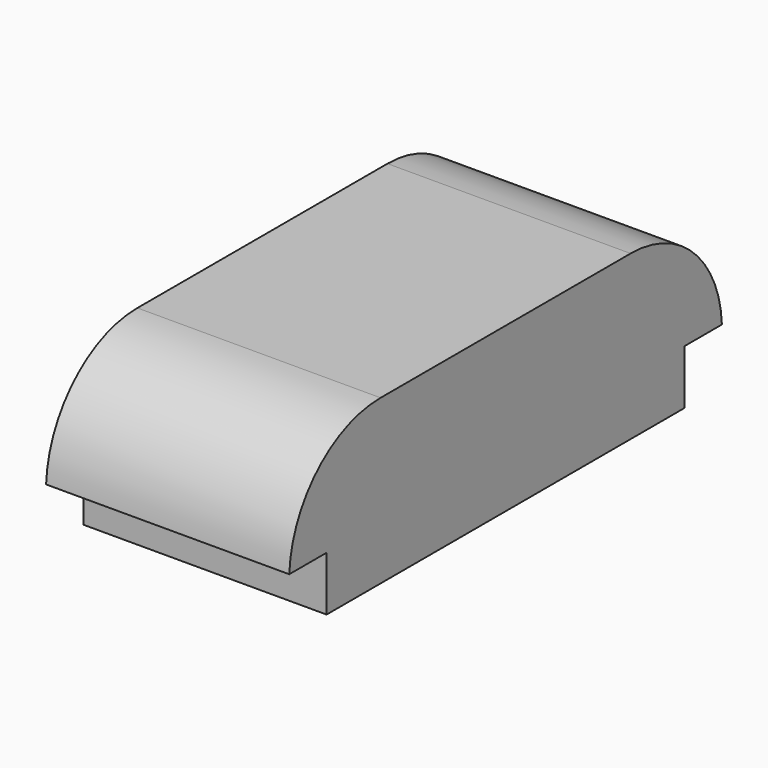
from build123d import *

# Parameters (mm, degrees)
F1_DEPTH      = 28.575
F1_DEPTH_BACK = 28.575


with BuildPart() as f1:
    # F0 (on Right) → F1 (new body, two sides)
    with BuildSketch(Plane.YZ) as f1_sk:
        with BuildLine():
            Line((-36.728401, 0), (0, 0))
            Line((0, 0), (52.577998, 0))
            Line((52.577998, 0), (52.577998, 12.8016))
            Line((52.577998, 12.8016), (63.5508, 12.8016))
            ThreePointArc((63.5508, 12.8016), (55.268661, 30.976501), (36.728401, 38.4048))
            Line((36.728401, 38.4048), (-36.728401, 38.4048))
            ThreePointArc((-36.728401, 38.4048), (-55.268661, 30.976501), (-63.5508, 12.8016))
            Line((-63.5508, 12.8016), (-52.577998, 12.8016))
            Line((-52.577998, 12.8016), (-52.577998, 0))
            Line((-52.577998, 0), (-36.728401, 0))
        make_face()
    extrude(amount=F1_DEPTH)
    extrude(f1_sk.sketch, amount=-F1_DEPTH_BACK)


solid = f1.part
